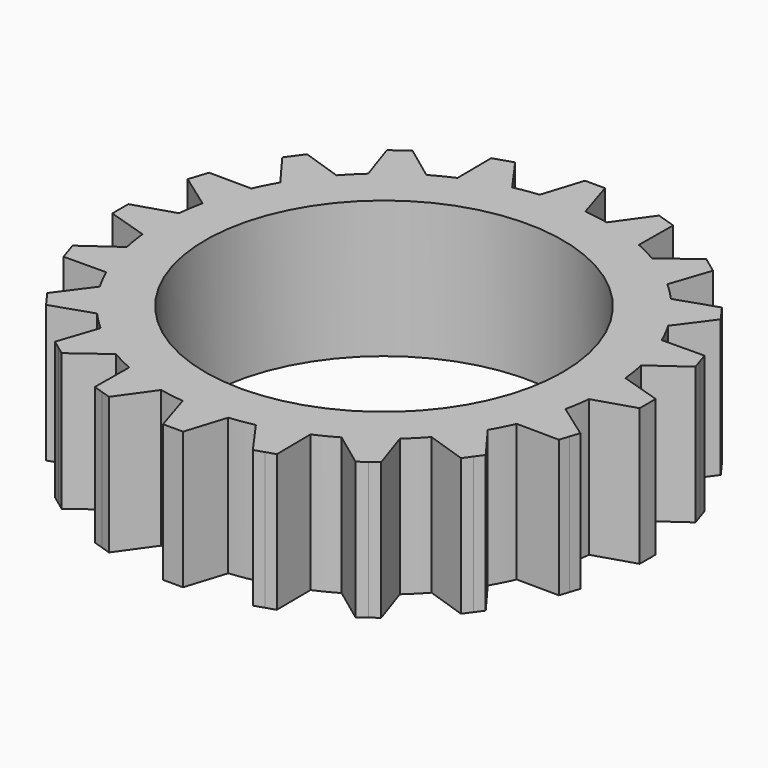
from build123d import *

# Parameters (mm, degrees)
F2_DEPTH = 25


with BuildPart() as f2:
    # F1 (on Top) → F2 (new body)
    with BuildSketch(Plane.XY):
        with BuildLine():
            Line((-1.828092, -48.106283), (0, -48.106283))
            Line((0, -48.106283), (1.828092, -48.106283))
            Line((1.828092, -48.106283), (4.154787, -40.719498))
            ThreePointArc((4.154787, -40.719498), (6.403006, -40.426987), (8.63158, -40.010444))
            Line((8.63158, -40.010444), (13.12704, -46.316705))
            Line((13.12704, -46.316705), (14.865659, -45.751794))
            Line((14.865659, -45.751794), (16.604278, -45.186882))
            Line((16.604278, -45.186882), (16.534454, -37.442644))
            ThreePointArc((16.534454, -37.442644), (18.582246, -36.469712), (20.573027, -35.384888))
            Line((20.573027, -35.384888), (26.797206, -39.993326))
            Line((26.797206, -39.993326), (28.276164, -38.9188))
            Line((28.276164, -38.9188), (29.755121, -37.844275))
            Line((29.755121, -37.844275), (27.295614, -30.500643))
            ThreePointArc((27.295614, -30.500643), (28.942527, -28.942527), (30.500643, -27.295614))
            Line((30.500643, -27.295614), (37.844275, -29.755121))
            Line((37.844275, -29.755121), (38.9188, -28.276164))
            Line((38.9188, -28.276164), (39.993326, -26.797206))
            Line((39.993326, -26.797206), (35.384888, -20.573027))
            ThreePointArc((35.384888, -20.573027), (36.469712, -18.582246), (37.442644, -16.534454))
            Line((37.442644, -16.534454), (45.186882, -16.604278))
            Line((45.186882, -16.604278), (45.751794, -14.865659))
            Line((45.751794, -14.865659), (46.316705, -13.12704))
            Line((46.316705, -13.12704), (40.010444, -8.63158))
            ThreePointArc((40.010444, -8.63158), (40.426987, -6.403006), (40.719498, -4.154787))
            Line((40.719498, -4.154787), (48.106283, -1.828092))
            Line((48.106283, -1.828092), (48.106283, 0))
            Line((48.106283, 0), (48.106283, 1.828092))
            Line((48.106283, 1.828092), (40.719498, 4.154787))
            ThreePointArc((40.719498, 4.154787), (40.426987, 6.403006), (40.010444, 8.63158))
            Line((40.010444, 8.63158), (46.316705, 13.12704))
            Line((46.316705, 13.12704), (45.751794, 14.865659))
            Line((45.751794, 14.865659), (45.186882, 16.604278))
            Line((45.186882, 16.604278), (37.442644, 16.534454))
            ThreePointArc((37.442644, 16.534454), (36.469712, 18.582246), (35.384888, 20.573027))
            Line((35.384888, 20.573027), (39.993326, 26.797206))
            Line((39.993326, 26.797206), (38.9188, 28.276164))
            Line((38.9188, 28.276164), (37.844275, 29.755121))
            Line((37.844275, 29.755121), (30.500643, 27.295614))
            ThreePointArc((30.500643, 27.295614), (28.942527, 28.942527), (27.295614, 30.500643))
            Line((27.295614, 30.500643), (29.755121, 37.844275))
            Line((29.755121, 37.844275), (28.276164, 38.9188))
            Line((28.276164, 38.9188), (26.797206, 39.993326))
            Line((26.797206, 39.993326), (20.573027, 35.384888))
            ThreePointArc((20.573027, 35.384888), (18.582246, 36.469712), (16.534454, 37.442644))
            Line((16.534454, 37.442644), (16.604278, 45.186882))
            Line((16.604278, 45.186882), (14.865659, 45.751794))
            Line((14.865659, 45.751794), (13.12704, 46.316705))
            Line((13.12704, 46.316705), (8.63158, 40.010444))
            ThreePointArc((8.63158, 40.010444), (6.403006, 40.426987), (4.154787, 40.719498))
            Line((4.154787, 40.719498), (1.828092, 48.106283))
            Line((1.828092, 48.106283), (0, 48.106283))
            Line((0, 48.106283), (-1.828092, 48.106283))
            Line((-1.828092, 48.106283), (-4.154787, 40.719498))
            ThreePointArc((-4.154787, 40.719498), (-6.403006, 40.426987), (-8.63158, 40.010444))
            Line((-8.63158, 40.010444), (-13.12704, 46.316705))
            Line((-13.12704, 46.316705), (-14.865659, 45.751794))
            Line((-14.865659, 45.751794), (-16.604278, 45.186882))
            Line((-16.604278, 45.186882), (-16.534454, 37.442644))
            ThreePointArc((-16.534454, 37.442644), (-18.582246, 36.469712), (-20.573027, 35.384888))
            Line((-20.573027, 35.384888), (-26.797206, 39.993326))
            Line((-26.797206, 39.993326), (-28.276164, 38.9188))
            Line((-28.276164, 38.9188), (-29.755121, 37.844275))
            Line((-29.755121, 37.844275), (-27.295614, 30.500643))
            ThreePointArc((-27.295614, 30.500643), (-28.942527, 28.942527), (-30.500643, 27.295614))
            Line((-30.500643, 27.295614), (-37.844275, 29.755121))
            Line((-37.844275, 29.755121), (-38.9188, 28.276164))
            Line((-38.9188, 28.276164), (-39.993326, 26.797206))
            Line((-39.993326, 26.797206), (-35.384888, 20.573027))
            ThreePointArc((-35.384888, 20.573027), (-36.469712, 18.582246), (-37.442644, 16.534454))
            Line((-37.442644, 16.534454), (-45.186882, 16.604278))
            Line((-45.186882, 16.604278), (-45.751794, 14.865659))
            Line((-45.751794, 14.865659), (-46.316705, 13.12704))
            Line((-46.316705, 13.12704), (-40.010444, 8.63158))
            ThreePointArc((-40.010444, 8.63158), (-40.426987, 6.403006), (-40.719498, 4.154787))
            Line((-40.719498, 4.154787), (-48.106283, 1.828092))
            Line((-48.106283, 1.828092), (-48.106283, 0))
            Line((-48.106283, 0), (-48.106283, -1.828092))
            Line((-48.106283, -1.828092), (-40.719498, -4.154787))
            ThreePointArc((-40.719498, -4.154787), (-40.426987, -6.403006), (-40.010444, -8.63158))
            Line((-40.010444, -8.63158), (-46.316705, -13.12704))
            Line((-46.316705, -13.12704), (-45.751794, -14.865659))
            Line((-45.751794, -14.865659), (-45.186882, -16.604278))
            Line((-45.186882, -16.604278), (-37.442644, -16.534454))
            ThreePointArc((-37.442644, -16.534454), (-36.469712, -18.582246), (-35.384888, -20.573027))
            Line((-35.384888, -20.573027), (-39.993326, -26.797206))
            Line((-39.993326, -26.797206), (-38.9188, -28.276164))
            Line((-38.9188, -28.276164), (-37.844275, -29.755121))
            Line((-37.844275, -29.755121), (-30.500643, -27.295614))
            ThreePointArc((-30.500643, -27.295614), (-28.942527, -28.942527), (-27.295614, -30.500643))
            Line((-27.295614, -30.500643), (-29.755121, -37.844275))
            Line((-29.755121, -37.844275), (-28.276164, -38.9188))
            Line((-28.276164, -38.9188), (-26.797206, -39.993326))
            Line((-26.797206, -39.993326), (-20.573027, -35.384888))
            ThreePointArc((-20.573027, -35.384888), (-18.582246, -36.469712), (-16.534454, -37.442644))
            Line((-16.534454, -37.442644), (-16.604278, -45.186882))
            Line((-16.604278, -45.186882), (-14.865659, -45.751794))
            Line((-14.865659, -45.751794), (-13.12704, -46.316705))
            Line((-13.12704, -46.316705), (-8.63158, -40.010444))
            ThreePointArc((-8.63158, -40.010444), (-6.403006, -40.426987), (-4.154787, -40.719498))
            Line((-4.154787, -40.719498), (-1.828092, -48.106283))
        make_face()
        with BuildLine():
            ThreePointArc((32.605994, 0), (23.05592, -23.05592), (0, -32.605994))
            ThreePointArc((0, -32.605994), (-23.05592, 23.05592), (32.605994, 0))
        make_face(mode=Mode.SUBTRACT)
    extrude(amount=F2_DEPTH)


solid = f2.part
